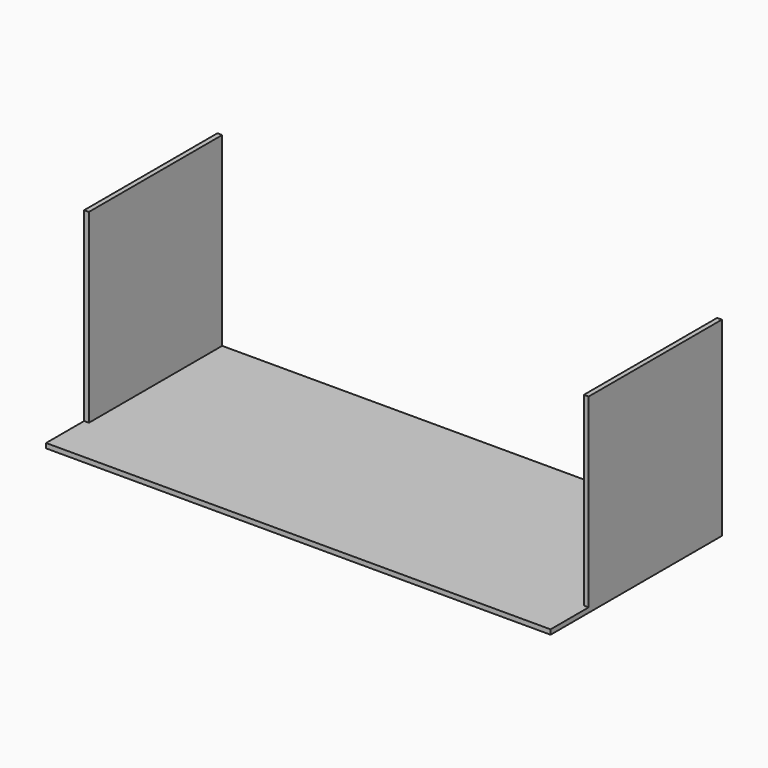
from build123d import *

# Parameters (mm, degrees)
F0_W     = 264.16
F0_H     = 2.54
F1_DEPTH = 88.9
F3_DEPTH = 114.3


with BuildPart() as f1:
    # F0 (on Front) → F1 (new body)
    with BuildSketch(Plane.XZ):
        with Locations((-132.08, 1.27)):
            Rectangle(F0_W, F0_H)
        Polygon((0, 2.54), (0, 0), (2.54, 0), (2.54, 101.6), (0, 101.6), align=None)
        Polygon((-266.7, 0), (-264.16, 0), (-264.16, 2.54), (-264.16, 101.6), (-266.7, 101.6), align=None)
    extrude(amount=F1_DEPTH)

    # F2 (on face) → F3 (join)
    with BuildSketch(Plane(origin=(0, 0, 0), x_dir=(-1, 0, 0), z_dir=(0, 1, 0))):
        Polygon((266.7, 2.54), (264.16, 2.54), (0, 2.54), (-2.54, 2.54), (-2.54, 0), (266.7, 0), align=None)
    extrude(amount=-F3_DEPTH)


solid = f1.part
